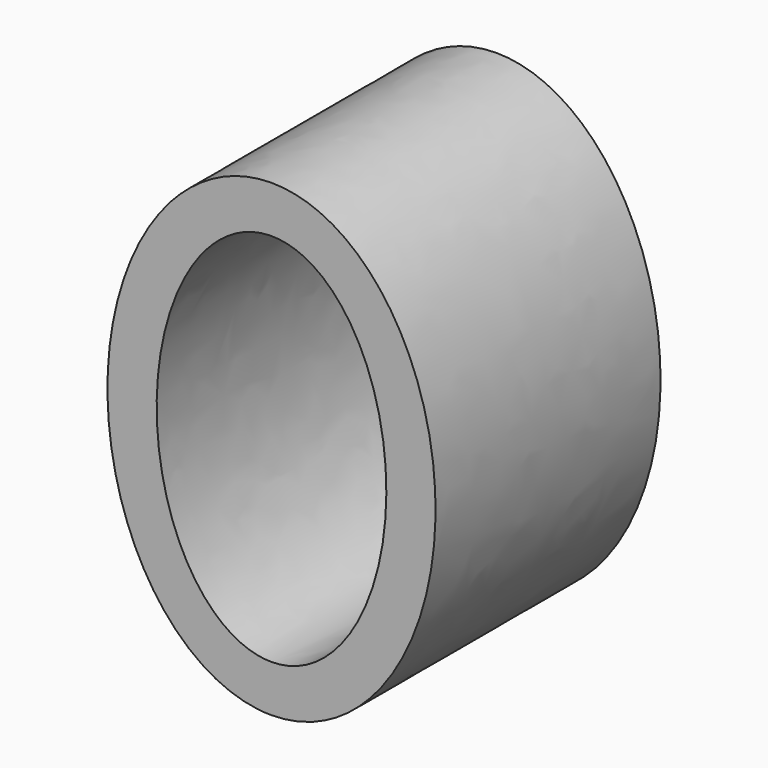
from build123d import *

# Parameters (mm, degrees)
F1_DEPTH = 76.2


with BuildPart() as f1:
    # F0 (on Front) → F1 (new body)
    with BuildSketch(Plane.XZ):
        with BuildLine():
            add(Edge.make_bspline(
                [(0, -63.5), (76.989658, -63.5), (38.494829, 31.75), (0, 127), (-38.494829, 31.75), (-76.989658, -63.5), (0, -63.5)],
                knots=[0, 0, 0, 2.094395, 2.094395, 4.18879, 4.18879, 6.283185, 6.283185, 6.283185], degree=2, weights=[1, 0.5, 1, 0.5, 1, 0.5, 1]))
        make_face()
        with BuildLine():
            add(Edge.make_bspline(
                [(0, -50.8), (53.892761, -50.8), (26.94638, 25.4), (0, 101.6), (-26.94638, 25.4), (-53.892761, -50.8), (0, -50.8)],
                knots=[0, 0, 0, 2.094395, 2.094395, 4.18879, 4.18879, 6.283185, 6.283185, 6.283185], degree=2, weights=[1, 0.5, 1, 0.5, 1, 0.5, 1]))
        make_face(mode=Mode.SUBTRACT)
    extrude(amount=F1_DEPTH)


solid = f1.part
